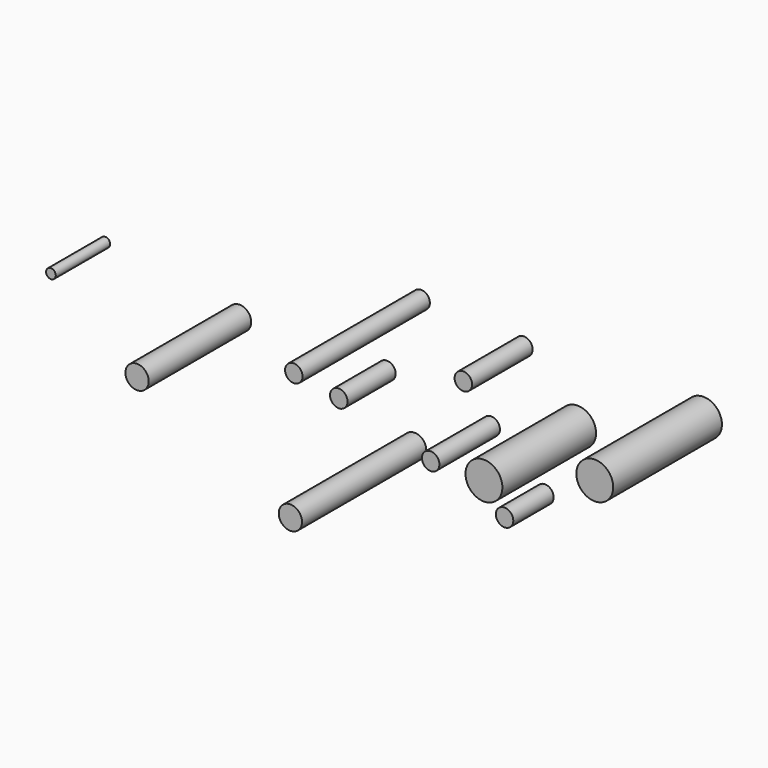
from build123d import *

# Parameters (mm, degrees)
F0_R      = 4.5
F1_DEPTH  = 39
F2_R      = 4.5
F3_DEPTH  = 82
F4_R      = 9.5
F5_DEPTH  = 60.331
F6_R      = 4.5
F7_DEPTH  = 31
F8_R      = 6
F9_DEPTH  = 80
F10_R     = 4.5
F11_DEPTH = 26
F12_R     = 4.5
F13_DEPTH = 39
F14_R     = 9.5
F15_DEPTH = 70
F16_R     = 6
F17_DEPTH = 66
F18_R     = 2.5
F19_DEPTH = 35


with BuildPart() as f1:
    # F0 (on Front) → F1 (new body)
    with BuildSketch(Plane.XZ):
        Circle(F0_R)
    extrude(amount=F1_DEPTH)


with BuildPart() as f3:
    # F2 (on Front) → F3 (new body)
    with BuildSketch(Plane.XZ):
        with Locations((-36.109302, 45.626484)):
            Circle(F2_R)
    extrude(amount=F3_DEPTH)


with BuildPart() as f5:
    # F4 (on Front) → F5 (new body)
    with BuildSketch(Plane.XZ):
        with Locations((44.512715, 14.342608)):
            Circle(F4_R)
    extrude(amount=F5_DEPTH)


with BuildPart() as f7:
    # F6 (on Front) → F7 (new body)
    with BuildSketch(Plane.XZ):
        with Locations((-53.735971, 7.760233)):
            Circle(F6_R)
    extrude(amount=F7_DEPTH)


with BuildPart() as f9:
    # F8 (on Front) → F9 (new body)
    with BuildSketch(Plane.XZ):
        with Locations((-39.465845, -21.763485)):
            Circle(F8_R)
    extrude(amount=F9_DEPTH)


with BuildPart() as f11:
    # F10 (on Front) → F11 (new body)
    with BuildSketch(Plane.XZ):
        with Locations((27.673289, -21.816513)):
            Circle(F10_R)
    extrude(amount=F11_DEPTH)


with BuildPart() as f13:
    # F12 (on Front) → F13 (new body)
    with BuildSketch(Plane.XZ):
        with Locations((16.838241, 41.729562)):
            Circle(F12_R)
    extrude(amount=F13_DEPTH)


with BuildPart() as f15:
    # F14 (on Front) → F15 (new body)
    with BuildSketch(Plane.XZ):
        with Locations((109.354839, 39.436627)):
            Circle(F14_R)
    extrude(amount=F15_DEPTH)


with BuildPart() as f17:
    # F16 (on Front) → F17 (new body)
    with BuildSketch(Plane.XZ):
        with Locations((-129.655063, 6.98001)):
            Circle(F16_R)
    extrude(amount=F17_DEPTH)


with BuildPart() as f19:
    # F18 (on Front) → F19 (new body)
    with BuildSketch(Plane.XZ):
        with Locations((-198.837802, 18.765518)):
            Circle(F18_R)
    extrude(amount=F19_DEPTH)


solid = Compound([f1.part, f3.part, f5.part, f7.part, f9.part, f11.part, f13.part, f15.part, f17.part, f19.part])
